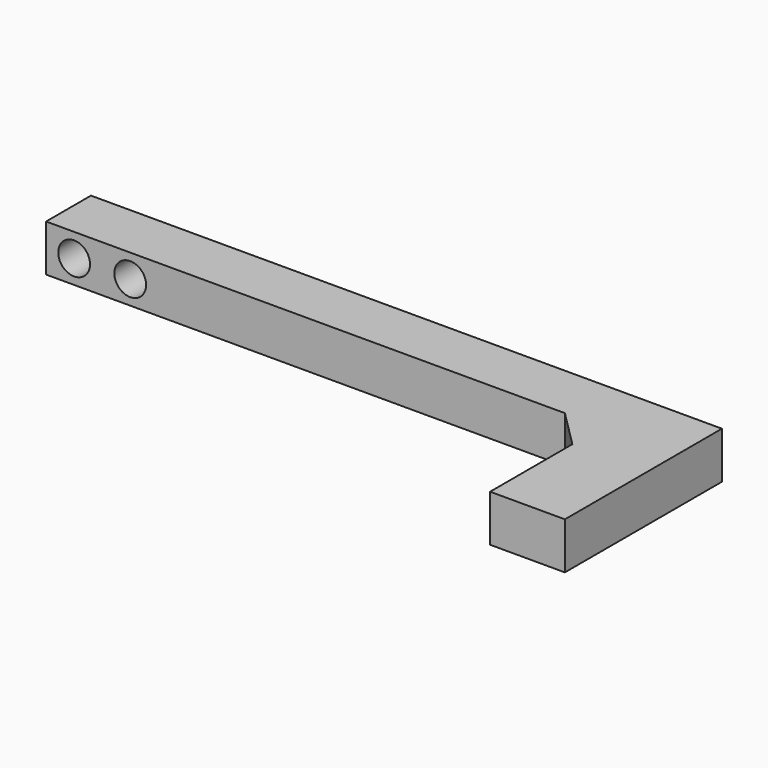
from build123d import *

# Parameters (mm, degrees)
CYLINDER074_R          = 1.7
CYLINDER074_DEPTH      = 50
CYLINDER074_ROLL_ANGLE = 90
CYLINDER073_R          = 1.7
CYLINDER073_DEPTH      = 50
CYLINDER073_ROLL_ANGLE = 90
BOX038_W               = 8
BOX038_H               = 21
BOX038_DEPTH           = 5
BOX037_W               = 60
BOX037_H               = 6
BOX037_DEPTH           = 5
CHAMFER005_SIZE        = 4


with BuildPart() as filament009:
    # Cylinder074 → Cylinder074 (new body)
    with BuildSketch(Plane.XY):
        Circle(CYLINDER074_R)
    extrude(amount=CYLINDER074_DEPTH)


with BuildPart() as filament009_1:
    # Cylinder074 roll: moved
    add(filament009.part.rotate(Axis((0, 0, 0), (1, 0, 0)), CYLINDER074_ROLL_ANGLE))


with BuildPart() as filament009_2:
    # Cylinder074 placement: moved
    add(filament009_1.part.moved(Location((25, 61, 67.5))))


with BuildPart() as m3_clearance002:
    # Cylinder073 → Cylinder073 (new body)
    with BuildSketch(Plane.XY):
        Circle(CYLINDER073_R)
    extrude(amount=CYLINDER073_DEPTH)


with BuildPart() as m3_clearance002_1:
    # Cylinder073 roll: moved
    add(m3_clearance002.part.rotate(Axis((0, 0, 0), (1, 0, 0)), CYLINDER073_ROLL_ANGLE))


with BuildPart() as m3_clearance002_2:
    # Cylinder073 placement: moved
    add(m3_clearance002_1.part.moved(Location((31, 61, 67.5))))

    # Fusion044: union filament009
    add(filament009_2.part)


with BuildPart() as cube035:
    # Box038 → Box038 (new body)
    with BuildSketch(Plane(origin=(81.5, 10, 65), x_dir=(1, 0, 0), z_dir=(0, 0, 1))):
        with Locations((4, 10.5)):
            Rectangle(BOX038_W, BOX038_H)
    extrude(amount=BOX038_DEPTH)


with BuildPart() as track_clamp_c:
    # Box037 → Box037 (new body)
    with BuildSketch(Plane(origin=(22, 25, 65), x_dir=(1, 0, 0), z_dir=(0, 0, 1))):
        with Locations((30, 3)):
            Rectangle(BOX037_W, BOX037_H)
    extrude(amount=BOX037_DEPTH)

    # Fusion043: union Cube035
    add(cube035.part)

    # Chamfer005
    chamfer005_edges = [track_clamp_c.edges().sort_by_distance(p)[0] for p in [
        (81.5, 25, 67.5),
    ]]
    chamfer(chamfer005_edges, length=CHAMFER005_SIZE)

    # Cut031: cut M3-clearance002
    add(m3_clearance002_2.part, mode=Mode.SUBTRACT)


solid = track_clamp_c.part
